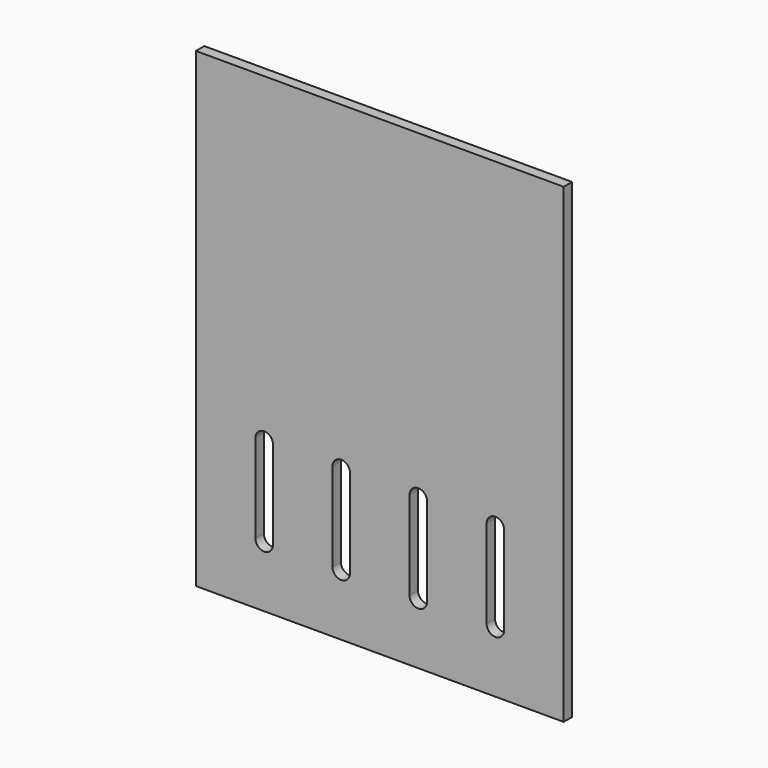
from build123d import *

# Parameters (mm, degrees)
SKETCH_W  = 420
SKETCH_H  = 538
PAD_DEPTH = 12


with BuildPart() as part:
    # Sketch → Pad (new body)
    with BuildSketch(Plane.XZ):
        with Locations((210, -269)):
            Rectangle(SKETCH_W, SKETCH_H)
        with BuildLine():
            ThreePointArc((88, -366.992235), (78, -356.992235), (68, -366.992235))
            Line((68, -366.992235), (68, -468))
            ThreePointArc((68, -468), (78, -478), (88, -468))
            Line((88, -366.992235), (88, -468))
        make_face(mode=Mode.SUBTRACT)
        with BuildLine():
            ThreePointArc((264, -366.992235), (254, -356.992235), (244, -366.992235))
            Line((244, -366.992235), (244, -468))
            ThreePointArc((244, -468), (254, -478), (264, -468))
            Line((264, -366.992235), (264, -468))
        make_face(mode=Mode.SUBTRACT)
        with BuildLine():
            ThreePointArc((352, -366.992235), (342, -356.992235), (332, -366.992235))
            Line((332, -366.992235), (332, -468))
            ThreePointArc((332, -468), (342, -478), (352, -468))
            Line((352, -366.992235), (352, -468))
        make_face(mode=Mode.SUBTRACT)
        with BuildLine():
            ThreePointArc((176, -366.992235), (166, -356.992235), (156, -366.992235))
            Line((156, -366.992235), (156, -468))
            ThreePointArc((156, -468), (166, -478), (176, -468))
            Line((176, -366.992235), (176, -468))
        make_face(mode=Mode.SUBTRACT)
    extrude(amount=PAD_DEPTH)


solid = part.part
